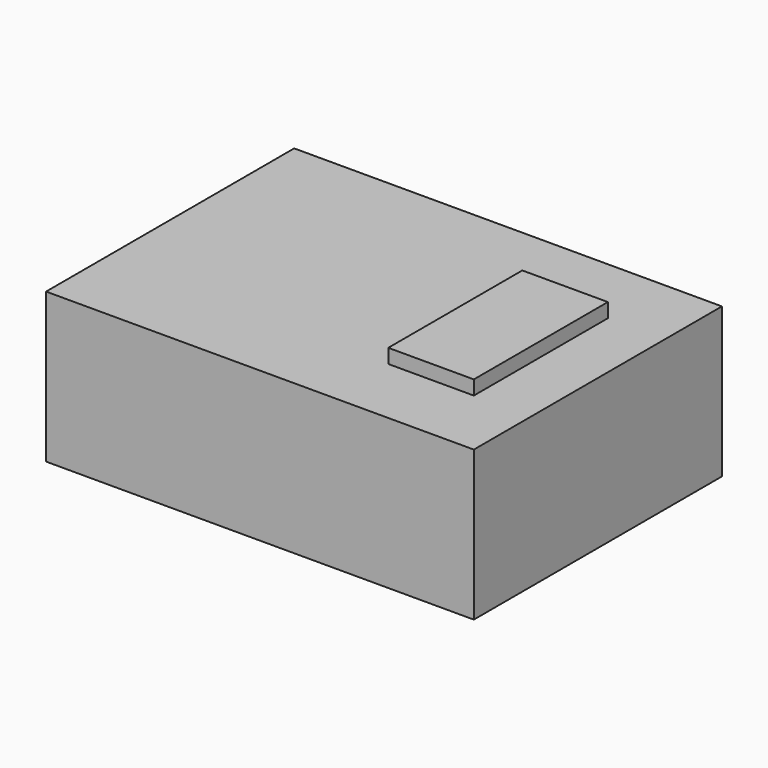
from build123d import *

# Parameters (mm, degrees)
F0_W     = 2
F0_H     = 0.7
F1_DEPTH = 1.45
F2_SCALE = 15
F3_W     = 6
F3_H     = 11.75
F4_DEPTH = 1


with BuildPart() as f1:
    # F0 (on Front) → F1 (new body)
    with BuildSketch(Plane.XZ):
        Rectangle(F0_W, F0_H)
    extrude(amount=F1_DEPTH)


with BuildPart() as f1_1:
    # F2: moved
    add(f1.part.scale(F2_SCALE))

    # F3 (on face) → F4 (join)
    with BuildSketch(Plane.XY.offset(5.25)):
        with Locations((8, -10.875)):
            Rectangle(F3_W, F3_H)
    extrude(amount=F4_DEPTH)


solid = f1_1.part
